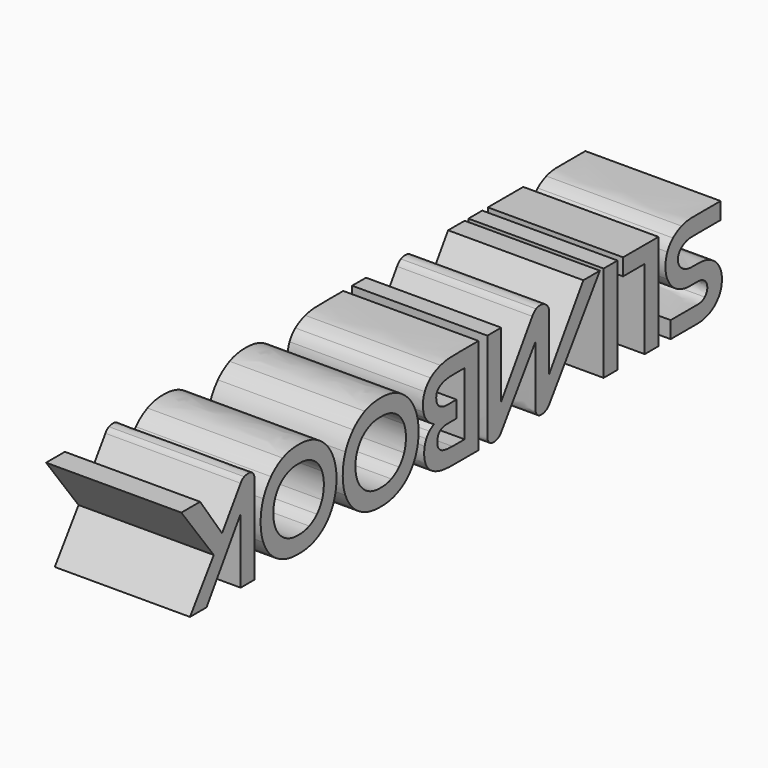
from build123d import *

# Parameters (mm, degrees)
EXTRUDE110_DEPTH           = 20
EXTRUDE110_ROLL_ANGLE      = -90
EXTRUDE110_PLACEMENT_ANGLE = -90
EXTRUDE111_DEPTH           = 20
EXTRUDE111_ROLL_ANGLE      = -90
EXTRUDE111_PLACEMENT_ANGLE = -90
EXTRUDE112_DEPTH           = 20
EXTRUDE112_ROLL_ANGLE      = -90
EXTRUDE112_PLACEMENT_ANGLE = -90
EXTRUDE113_DEPTH           = 20
EXTRUDE113_ROLL_ANGLE      = -90
EXTRUDE113_PLACEMENT_ANGLE = -90
EXTRUDE114_DEPTH           = 20
EXTRUDE114_ROLL_ANGLE      = -90
EXTRUDE114_PLACEMENT_ANGLE = -90
EXTRUDE115_DEPTH           = 20
EXTRUDE115_ROLL_ANGLE      = -90
EXTRUDE115_PLACEMENT_ANGLE = -90
EXTRUDE116_DEPTH           = 20
EXTRUDE116_ROLL_ANGLE      = -90
EXTRUDE116_PLACEMENT_ANGLE = -90
EXTRUDE109_DEPTH           = 20
EXTRUDE109_ROLL_ANGLE      = -90
EXTRUDE109_PLACEMENT_ANGLE = -90


with BuildPart() as extrude110:
    # Face027 → Extrude110 (new body)
    with BuildSketch(Plane(origin=(91.640751, -37.260951, 0), x_dir=(0, 1, 0), z_dir=(0, 0, 1))):
        with BuildLine():
            add(Edge.make_bspline(
                [(7.513413, 5.192279), (-5.590696, 5.192279)],
                knots=[0, 0, 49.52734, 49.52734], degree=1))
            add(Edge.make_bspline(
                [(-5.590696, 5.192279), (-5.968169, 5.192282), (-6.265624, 5.091573), (-6.484699, 4.89049)],
                knots=[0, 0, 0, 0, 1, 1, 1, 1], degree=3))
            add(Edge.make_bspline(
                [(-6.484699, 4.89049), (-6.703774, 4.689055), (-6.812844, 4.424609), (-6.812844, 4.09829)],
                knots=[0, 0, 0, 0, 1, 1, 1, 1], degree=3))
            add(Edge.make_bspline(
                [(-6.812844, 4.09829), (-6.812844, 3.808659), (-6.764811, 3.537279), (-6.668151, 3.286454)],
                knots=[0, 0, 0, 0, 1, 1, 1, 1], degree=3))
            add(Edge.make_bspline(
                [(-6.668151, 3.286454), (-6.558084, 3.02187), (-6.363444, 2.801523), (-6.083692, 2.626546)],
                knots=[0, 0, 0, 0, 1, 1, 1, 1], degree=3))
            add(Edge.make_bspline(
                [(-6.083692, 2.626546), (-0.972891, -0.810455)],
                knots=[0, 0, 23.278102, 23.278102], degree=1))
            add(Edge.make_bspline(
                [(-0.972891, -0.810455), (-6.721896, -4.868605)],
                knots=[0, 0, 26.596606, 26.596606], degree=1))
            add(Edge.make_bspline(
                [(-6.721896, -4.868605), (-6.721896, -8.341262)],
                knots=[0, 0, 13.125, 13.125], degree=1))
            add(Edge.make_bspline(
                [(-6.721896, -8.341262), (1.234726, -2.338527)],
                knots=[0, 0, 37.670467, 37.670467], degree=1))
            add(Edge.make_bspline(
                [(1.234726, -2.338527), (7.513413, -6.737225)],
                knots=[0, 0, 28.974572, 28.974572], degree=1))
            add(Edge.make_bspline(
                [(7.513413, -6.737225), (7.513413, -3.679528)],
                knots=[0, 0, 11.55665, 11.55665], degree=1))
            add(Edge.make_bspline(
                [(7.513413, -3.679528), (-2.105639, 2.626546)],
                knots=[0, 0, 43.471586, 43.471586], degree=1))
            add(Edge.make_bspline(
                [(-2.105639, 2.626546), (7.513413, 2.626546)],
                knots=[0, 0, 36.35547, 36.35547], degree=1))
            add(Edge.make_bspline(
                [(7.513413, 2.626546), (7.513413, 5.192279)],
                knots=[0, 0, 9.69726, 9.69726], degree=1))
        make_face()
    extrude(amount=EXTRUDE110_DEPTH)


with BuildPart() as extrude110_1:
    # Extrude110 roll: moved
    add(extrude110.part.rotate(Axis((0, 0, 0), (1, 0, 0)), EXTRUDE110_ROLL_ANGLE))


with BuildPart() as extrude110_2:
    # Extrude110 placement: moved
    add(extrude110_1.part.moved(Location((235.5, 118.54, -29.31))).rotate(Axis((235.5, 118.54, -29.31), (0, 0, 1)), EXTRUDE110_PLACEMENT_ANGLE))


with BuildPart() as extrude111:
    # Cut044 → Extrude111 (new body)
    with BuildSketch(Plane(origin=(78.30453, -36.824319, 0), x_dir=(0, 1, 0), z_dir=(0, 0, 1))):
        with BuildLine():
            add(Edge.make_bspline(
                [(7.036458, 0.196119), (7.036458, 1.213178), (6.865807, 2.143154), (6.525379, 2.986646)],
                knots=[0, 0, 0, 0, 1, 1, 1, 1], degree=3))
            add(Edge.make_bspline(
                [(6.525379, 2.986646), (6.184947, 3.81885), (5.703789, 4.535606), (5.083606, 5.136385)],
                knots=[0, 0, 0, 0, 1, 1, 1, 1], degree=3))
            add(Edge.make_bspline(
                [(5.083606, 5.136385), (4.462364, 5.726231), (3.726561, 6.187561), (2.874954, 6.522349)],
                knots=[0, 0, 0, 0, 1, 1, 1, 1], degree=3))
            add(Edge.make_bspline(
                [(2.874954, 6.522349), (2.023348, 6.846199), (1.086106, 7.00759), (0.063756, 7.00759)],
                knots=[0, 0, 0, 0, 1, 1, 1, 1], degree=3))
            add(Edge.make_bspline(
                [(0.063756, 7.00759), (-0.957535, 7.00759), (-1.912538, 6.841114), (-2.801184, 6.506329)],
                knots=[0, 0, 0, 0, 1, 1, 1, 1], degree=3))
            add(Edge.make_bspline(
                [(-2.801184, 6.506329), (-3.677838, 6.169779), (-4.443725, 5.702543), (-5.101302, 5.101762)],
                knots=[0, 0, 0, 0, 1, 1, 1, 1], degree=3))
            add(Edge.make_bspline(
                [(-5.101302, 5.101762), (-5.758527, 4.500983), (-6.275018, 3.784579), (-6.65108, 2.952022)],
                knots=[0, 0, 0, 0, 1, 1, 1, 1], degree=3))
            add(Edge.make_bspline(
                [(-6.65108, 2.952022), (-7.017616, 2.108885), (-7.199882, 1.189543), (-7.199882, 0.196119)],
                knots=[0, 0, 0, 0, 1, 1, 1, 1], degree=3))
            add(Edge.make_bspline(
                [(-7.199882, 0.196119), (-7.199882, -0.202306)],
                knots=[0, 0, 1.50586, 1.50586], degree=1))
            add(Edge.make_bspline(
                [(-7.199882, -0.202306), (-7.199882, -1.195729), (-7.017616, -2.109634), (-6.65108, -2.942191)],
                knots=[0, 0, 0, 0, 1, 1, 1, 1], degree=3))
            add(Edge.make_bspline(
                [(-6.65108, -2.942191), (-6.275018, -3.772982), (-5.758527, -4.489223), (-5.101302, -5.091414)],
                knots=[0, 0, 0, 0, 1, 1, 1, 1], degree=3))
            add(Edge.make_bspline(
                [(-5.101302, -5.091414), (-4.443725, -5.703483), (-3.677838, -6.176317), (-2.801184, -6.512515)],
                knots=[0, 0, 0, 0, 1, 1, 1, 1], degree=3))
            add(Edge.make_bspline(
                [(-2.801184, -6.512515), (-1.912538, -6.847301), (-0.957535, -7.014292), (0.063756, -7.014292)],
                knots=[0, 0, 0, 0, 1, 1, 1, 1], degree=3))
            add(Edge.make_bspline(
                [(0.063756, -7.014292), (1.073758, -7.014292), (2.005261, -6.853042), (2.856867, -6.530602)],
                knots=[0, 0, 0, 0, 1, 1, 1, 1], degree=3))
            add(Edge.make_bspline(
                [(2.856867, -6.530602), (3.708474, -6.206752), (4.444441, -5.743353), (5.066035, -5.142572)],
                knots=[0, 0, 0, 0, 1, 1, 1, 1], degree=3))
            add(Edge.make_bspline(
                [(5.066035, -5.142572), (5.685866, -4.552728), (6.167212, -3.836464), (6.507292, -2.994382)],
                knots=[0, 0, 0, 0, 1, 1, 1, 1], degree=3))
            add(Edge.make_bspline(
                [(6.507292, -2.994382), (6.860069, -2.162181), (7.036458, -1.231712), (7.036458, -0.202306)],
                knots=[0, 0, 0, 0, 1, 1, 1, 1], degree=3))
            add(Edge.make_bspline(
                [(7.036458, -0.202306), (7.036458, 0.196119)],
                knots=[0, 0, 1.50586, 1.50586], degree=1))
        make_face()
        with BuildLine():
            add(Edge.make_bspline(
                [(4.207652, 1.980507), (4.437663, 1.438992), (4.554402, 0.843819), (4.554402, 0.196119)],
                knots=[0, 0, 0, 0, 1, 1, 1, 1], degree=3))
            add(Edge.make_bspline(
                [(4.554402, 0.196119), (4.554402, -0.202306)],
                knots=[0, 0, 1.50586, 1.50586], degree=1))
            add(Edge.make_bspline(
                [(4.554402, -0.202306), (4.554402, -0.850006), (4.437663, -1.444967), (4.207652, -1.988243)],
                knots=[0, 0, 0, 0, 1, 1, 1, 1], degree=3))
            add(Edge.make_bspline(
                [(4.207652, -1.988243), (3.976229, -2.543517), (3.647985, -3.016187), (3.222183, -3.408828)],
                knots=[0, 0, 0, 0, 1, 1, 1, 1], degree=3))
            add(Edge.make_bspline(
                [(3.222183, -3.408828), (2.808726, -3.813818), (2.315572, -4.125614), (1.74372, -4.344689)],
                knots=[0, 0, 0, 0, 1, 1, 1, 1], degree=3))
            add(Edge.make_bspline(
                [(1.74372, -4.344689), (1.171868, -4.565174), (0.544591, -4.673868), (-0.136269, -4.673868)],
                knots=[0, 0, 0, 0, 1, 1, 1, 1], degree=3))
            add(Edge.make_bspline(
                [(-0.136269, -4.673868), (-0.793494, -4.673868), (-1.402491, -4.565174), (-1.961997, -4.344689)],
                knots=[0, 0, 0, 0, 1, 1, 1, 1], degree=3))
            add(Edge.make_bspline(
                [(-1.961997, -4.344689), (-2.521503, -4.136549), (-3.007884, -3.836093), (-3.421341, -3.443452)],
                knots=[0, 0, 0, 0, 1, 1, 1, 1], degree=3))
            add(Edge.make_bspline(
                [(-3.421341, -3.443452), (-3.823859, -3.050458), (-4.139214, -2.577082), (-4.370637, -2.022867)],
                knots=[0, 0, 0, 0, 1, 1, 1, 1], degree=3))
            add(Edge.make_bspline(
                [(-4.370637, -2.022867), (-4.602412, -1.479942), (-4.717902, -0.872231), (-4.717902, -0.202306)],
                knots=[0, 0, 0, 0, 1, 1, 1, 1], degree=3))
            add(Edge.make_bspline(
                [(-4.717902, -0.202306), (-4.717902, 0.196119)],
                knots=[0, 0, 1.50586, 1.50586], degree=1))
            add(Edge.make_bspline(
                [(-4.717902, 0.196119), (-4.717902, 0.854755), (-4.607796, 1.460891), (-4.388721, 2.016164)],
                knots=[0, 0, 0, 0, 1, 1, 1, 1], degree=3))
            add(Edge.make_bspline(
                [(-4.388721, 2.016164), (-4.158711, 2.559089), (-3.841732, 3.026158), (-3.440975, 3.420213)],
                knots=[0, 0, 0, 0, 1, 1, 1, 1], degree=3))
            add(Edge.make_bspline(
                [(-3.440975, 3.420213), (-3.026109, 3.813206), (-2.53959, 4.119427), (-1.980084, 4.338502)],
                knots=[0, 0, 0, 0, 1, 1, 1, 1], degree=3))
            add(Edge.make_bspline(
                [(-1.980084, 4.338502), (-1.420577, 4.558988), (-0.805842, 4.667681), (-0.136269, 4.667681)],
                knots=[0, 0, 0, 0, 1, 1, 1, 1], degree=3))
            add(Edge.make_bspline(
                [(-0.136269, 4.667681), (0.55694, 4.667681), (1.189437, 4.558988), (1.761291, 4.338502)],
                knots=[0, 0, 0, 0, 1, 1, 1, 1], degree=3))
            add(Edge.make_bspline(
                [(1.761291, 4.338502), (2.333143, 4.108492), (2.826813, 3.795284), (3.24027, 3.402642)],
                knots=[0, 0, 0, 0, 1, 1, 1, 1], degree=3))
            add(Edge.make_bspline(
                [(3.24027, 3.402642), (3.655136, 2.998711), (3.976229, 2.524842), (4.207652, 1.980507)],
                knots=[0, 0, 0, 0, 1, 1, 1, 1], degree=3))
        make_face(mode=Mode.SUBTRACT)
    extrude(amount=EXTRUDE111_DEPTH)


with BuildPart() as extrude111_1:
    # Extrude111 roll: moved
    add(extrude111.part.rotate(Axis((0, 0, 0), (1, 0, 0)), EXTRUDE111_ROLL_ANGLE))


with BuildPart() as extrude111_2:
    # Extrude111 placement: moved
    add(extrude111_1.part.moved(Location((235.5, 118.54, -29.31))).rotate(Axis((235.5, 118.54, -29.31), (0, 0, 1)), EXTRUDE111_PLACEMENT_ANGLE))


with BuildPart() as extrude112:
    # Face030 → Extrude112 (new body)
    with BuildSketch(Plane(origin=(13.743728, -38.169319, 0), x_dir=(0, 1, 0), z_dir=(0, 0, 1))):
        with BuildLine():
            add(Edge.make_bspline(
                [(8.381458, 1.978038), (-5.854882, 1.978038)],
                knots=[0, 0, 53.80664, 53.80664], degree=1))
            add(Edge.make_bspline(
                [(-5.854882, 1.978038), (-5.854882, -4.57195)],
                knots=[0, 0, 24.755859, 24.755859], degree=1))
            add(Edge.make_bspline(
                [(-5.854882, -4.57195), (-3.372865, -4.57195)],
                knots=[0, 0, 9.38085, 9.38085], degree=1))
            add(Edge.make_bspline(
                [(-3.372865, -4.57195), (-3.372865, -0.570127)],
                knots=[0, 0, 15.125, 15.125], degree=1))
            add(Edge.make_bspline(
                [(-3.372865, -0.570127), (8.381458, -0.570127)],
                knots=[0, 0, 44.42579, 44.42579], degree=1))
            add(Edge.make_bspline(
                [(8.381458, -0.570127), (8.381458, 1.978038)],
                knots=[0, 0, 9.630859, 9.630859], degree=1))
        make_face()
    extrude(amount=EXTRUDE112_DEPTH)


with BuildPart() as extrude112_1:
    # Extrude112 roll: moved
    add(extrude112.part.rotate(Axis((0, 0, 0), (1, 0, 0)), EXTRUDE112_ROLL_ANGLE))


with BuildPart() as extrude112_2:
    # Extrude112 placement: moved
    add(extrude112_1.part.moved(Location((235.5, 118.54, -29.31))).rotate(Axis((235.5, 118.54, -29.31), (0, 0, 1)), EXTRUDE112_PLACEMENT_ANGLE))


with BuildPart() as extrude113:
    # Face031 → Extrude113 (new body)
    with BuildSketch(Plane(origin=(20.629232, -36.906031, 0), x_dir=(0, 1, 0), z_dir=(0, 0, 1))):
        with BuildLine():
            add(Edge.make_bspline(
                [(7.11817, 1.284159), (-7.11817, 1.284159)],
                knots=[0, 0, 53.80664, 53.80664], degree=1))
            add(Edge.make_bspline(
                [(-7.11817, 1.284159), (-7.11817, -1.284159)],
                knots=[0, 0, 9.707032, 9.707032], degree=1))
            add(Edge.make_bspline(
                [(-7.11817, -1.284159), (7.11817, -1.284159)],
                knots=[0, 0, 53.80664, 53.80664], degree=1))
            add(Edge.make_bspline(
                [(7.11817, -1.284159), (7.11817, 1.284159)],
                knots=[0, 0, 9.707032, 9.707032], degree=1))
        make_face()
    extrude(amount=EXTRUDE113_DEPTH)


with BuildPart() as extrude113_1:
    # Extrude113 roll: moved
    add(extrude113.part.rotate(Axis((0, 0, 0), (1, 0, 0)), EXTRUDE113_ROLL_ANGLE))


with BuildPart() as extrude113_2:
    # Extrude113 placement: moved
    add(extrude113_1.part.moved(Location((235.5, 118.54, -29.31))).rotate(Axis((235.5, 118.54, -29.31), (0, 0, 1)), EXTRUDE113_PLACEMENT_ANGLE))


with BuildPart() as extrude114:
    # Face032 → Extrude114 (new body)
    with BuildSketch(Plane(origin=(5.195557, -36.894004, 0), x_dir=(0, 1, 0), z_dir=(0, 0, 1))):
        with BuildLine():
            add(Edge.make_bspline(
                [(7.106144, 0.566899), (7.106144, 1.246349), (7.003329, 1.868958), (6.7966, 2.435519)],
                knots=[0, 0, 0, 0, 1, 1, 1, 1], degree=3))
            add(Edge.make_bspline(
                [(6.7966, 2.435519), (6.602221, 3.001727), (6.327724, 3.485107), (5.974944, 3.887626)],
                knots=[0, 0, 0, 0, 1, 1, 1, 1], degree=3))
            add(Edge.make_bspline(
                [(5.974944, 3.887626), (5.622167, 4.291557), (5.207295, 4.605764), (4.733162, 4.833305)],
                knots=[0, 0, 0, 0, 1, 1, 1, 1], degree=3))
            add(Edge.make_bspline(
                [(4.733162, 4.833305), (4.259028, 5.046736), (3.742374, 5.154216), (3.182868, 5.154216)],
                knots=[0, 0, 0, 0, 1, 1, 1, 1], degree=3))
            add(Edge.make_bspline(
                [(3.182868, 5.154216), (2.609603, 5.154216), (2.086037, 5.046736), (1.611904, 4.833305)],
                knots=[0, 0, 0, 0, 1, 1, 1, 1], degree=3))
            add(Edge.make_bspline(
                [(1.611904, 4.833305), (1.150471, 4.618111), (0.742533, 4.322976), (0.389757, 3.945504)],
                knots=[0, 0, 0, 0, 1, 1, 1, 1], degree=3))
            add(Edge.make_bspline(
                [(0.389757, 3.945504), (0.04968, 3.568032), (-0.21802, 3.12132), (-0.413812, 2.604501)],
                knots=[0, 0, 0, 0, 1, 1, 1, 1], degree=3))
            add(Edge.make_bspline(
                [(-0.413812, 2.604501), (-0.595845, 2.089092), (-0.687698, 1.529678), (-0.687698, 0.925017)],
                knots=[0, 0, 0, 0, 1, 1, 1, 1], degree=3))
            add(Edge.make_bspline(
                [(-0.687698, 0.925017), (-0.687698, -0.244938)],
                knots=[0, 0, 4.421875, 4.421875], degree=1))
            add(Edge.make_bspline(
                [(-0.687698, -0.244938), (-0.687698, -0.634757), (-0.736083, -0.999908), (-0.832391, -1.338928)],
                knots=[0, 0, 0, 0, 1, 1, 1, 1], degree=3))
            add(Edge.make_bspline(
                [(-0.832391, -1.338928), (-0.930464, -1.679358), (-1.071003, -1.968967), (-1.253036, -2.207092)],
                knots=[0, 0, 0, 0, 1, 1, 1, 1], degree=3))
            add(Edge.make_bspline(
                [(-1.253036, -2.207092), (-1.423782, -2.446981), (-1.630583, -2.635669), (-1.874704, -2.775016)],
                knots=[0, 0, 0, 0, 1, 1, 1, 1], degree=3))
            add(Edge.make_bspline(
                [(-1.874704, -2.775016), (-2.117062, -2.912599), (-2.384106, -2.981722), (-2.676206, -2.981722)],
                knots=[0, 0, 0, 0, 1, 1, 1, 1], degree=3))
            add(Edge.make_bspline(
                [(-2.676206, -2.981722), (-3.260406, -2.981722), (-3.734767, -2.723911), (-4.099892, -2.207092)],
                knots=[0, 0, 0, 0, 1, 1, 1, 1], degree=3))
            add(Edge.make_bspline(
                [(-4.099892, -2.207092), (-4.465017, -1.691684), (-4.64818, -1.038688), (-4.64818, -0.244938)],
                knots=[0, 0, 0, 0, 1, 1, 1, 1], degree=3))
            add(Edge.make_bspline(
                [(-4.64818, -0.244938), (-4.64818, 4.90927)],
                knots=[0, 0, 19.480469, 19.480469], degree=1))
            add(Edge.make_bspline(
                [(-4.64818, 4.90927), (-7.130197, 4.90927)],
                knots=[0, 0, 9.38085, 9.38085], degree=1))
            add(Edge.make_bspline(
                [(-7.130197, 4.90927), (-7.130197, -0.244938)],
                knots=[0, 0, 19.480469, 19.480469], degree=1))
            add(Edge.make_bspline(
                [(-7.130197, -0.244938), (-7.130197, -0.999882), (-7.019577, -1.686227), (-6.800502, -2.302177)],
                knots=[0, 0, 0, 0, 1, 1, 1, 1], degree=3))
            add(Edge.make_bspline(
                [(-6.800502, -2.302177), (-6.581427, -2.919538), (-6.277175, -3.447671), (-5.888414, -3.888643)],
                knots=[0, 0, 0, 0, 1, 1, 1, 1], degree=3))
            add(Edge.make_bspline(
                [(-5.888414, -3.888643), (-5.498593, -4.340551), (-5.036771, -4.687664), (-4.5009, -4.925789)],
                knots=[0, 0, 0, 0, 1, 1, 1, 1], degree=3))
            add(Edge.make_bspline(
                [(-4.5009, -4.925789), (-3.966089, -5.164267), (-3.376378, -5.285974), (-2.731499, -5.285974)],
                knots=[0, 0, 0, 0, 1, 1, 1, 1], degree=3))
            add(Edge.make_bspline(
                [(-2.731499, -5.285974), (-2.09756, -5.285974), (-1.514857, -5.171557), (-0.978634, -4.945426)],
                knots=[0, 0, 0, 0, 1, 1, 1, 1], degree=3))
            add(Edge.make_bspline(
                [(-0.978634, -4.945426), (-0.444178, -4.718237), (0.019435, -4.403817), (0.407843, -4.001298)],
                knots=[0, 0, 0, 0, 1, 1, 1, 1], degree=3))
            add(Edge.make_bspline(
                [(0.407843, -4.001298), (0.798017, -3.599131), (1.095257, -3.120621), (1.303397, -2.56676)],
                knots=[0, 0, 0, 0, 1, 1, 1, 1], degree=3))
            add(Edge.make_bspline(
                [(1.303397, -2.56676), (1.521059, -2.012899), (1.629991, -1.40974), (1.629991, -0.754984)],
                knots=[0, 0, 0, 0, 1, 1, 1, 1], degree=3))
            add(Edge.make_bspline(
                [(1.629991, -0.754984), (1.629991, 0.699191)],
                knots=[0, 0, 5.496093, 5.496093], degree=1))
            add(Edge.make_bspline(
                [(1.629991, 0.699191), (1.629991, 1.226946), (1.777517, 1.655267), (2.068207, 1.98335)],
                knots=[0, 0, 0, 0, 1, 1, 1, 1], degree=3))
            add(Edge.make_bspline(
                [(2.068207, 1.98335), (2.361717, 2.295911), (2.725599, 2.453606), (3.163746, 2.453606)],
                knots=[0, 0, 0, 0, 1, 1, 1, 1], degree=3))
            add(Edge.make_bspline(
                [(3.163746, 2.453606), (3.564503, 2.453606), (3.906672, 2.295911), (4.186424, 1.98335)],
                knots=[0, 0, 0, 0, 1, 1, 1, 1], degree=3))
            add(Edge.make_bspline(
                [(4.186424, 1.98335), (4.478524, 1.667614), (4.624124, 1.240705), (4.624124, 0.699191)],
                knots=[0, 0, 0, 0, 1, 1, 1, 1], degree=3))
            add(Edge.make_bspline(
                [(4.624124, 0.699191), (4.624124, -4.322208)],
                knots=[0, 0, 18.978515, 18.978515], degree=1))
            add(Edge.make_bspline(
                [(4.624124, -4.322208), (7.106144, -4.322208)],
                knots=[0, 0, 9.38086, 9.38086], degree=1))
            add(Edge.make_bspline(
                [(7.106144, -4.322208), (7.106144, 0.566899)],
                knots=[0, 0, 18.478515, 18.478515], degree=1))
        make_face()
    extrude(amount=EXTRUDE114_DEPTH)


with BuildPart() as extrude114_1:
    # Extrude114 roll: moved
    add(extrude114.part.rotate(Axis((0, 0, 0), (1, 0, 0)), EXTRUDE114_ROLL_ANGLE))


with BuildPart() as extrude114_2:
    # Extrude114 placement: moved
    add(extrude114_1.part.moved(Location((235.5, 118.54, -29.31))).rotate(Axis((235.5, 118.54, -29.31), (0, 0, 1)), EXTRUDE114_PLACEMENT_ANGLE))


with BuildPart() as extrude115:
    # Cut045 → Extrude115 (new body)
    with BuildSketch(Plane(origin=(49.765622, -36.859535, 0), x_dir=(0, 1, 0), z_dir=(0, 0, 1))):
        with BuildLine():
            add(Edge.make_bspline(
                [(7.089772, 4.722895), (-7.146571, 4.722895)],
                knots=[0, 0, 53.80665, 53.80665], degree=1))
            add(Edge.make_bspline(
                [(-7.146571, 4.722895), (-7.146571, 0.306626)],
                knots=[0, 0, 16.69141, 16.69141], degree=1))
            add(Edge.make_bspline(
                [(-7.146571, 0.306626), (-7.146571, -0.699497), (-7.036464, -1.569027), (-6.817389, -2.297866)],
                knots=[0, 0, 0, 0, 1, 1, 1, 1], degree=3))
            add(Edge.make_bspline(
                [(-6.817389, -2.297866), (-6.598317, -3.040816), (-6.300698, -3.651266), (-5.922873, -4.129281)],
                knots=[0, 0, 0, 0, 1, 1, 1, 1], degree=3))
            add(Edge.make_bspline(
                [(-5.922873, -4.129281), (-5.533052, -4.619993), (-5.084093, -4.978511), (-4.572566, -5.205698)],
                knots=[0, 0, 0, 0, 1, 1, 1, 1], degree=3))
            add(Edge.make_bspline(
                [(-4.572566, -5.205698), (-4.061391, -5.445588), (-3.513974, -5.563817), (-2.929774, -5.563817)],
                knots=[0, 0, 0, 0, 1, 1, 1, 1], degree=3))
            add(Edge.make_bspline(
                [(-2.929774, -5.563817), (-2.637674, -5.563817), (-2.333419, -5.526656), (-2.017684, -5.451163)],
                knots=[0, 0, 0, 0, 1, 1, 1, 1], degree=3))
            add(Edge.make_bspline(
                [(-2.017684, -5.451163), (-1.70089, -5.387663), (-1.396283, -5.274797), (-1.105593, -5.112165)],
                knots=[0, 0, 0, 0, 1, 1, 1, 1], degree=3))
            add(Edge.make_bspline(
                [(-1.105593, -5.112165), (-0.812083, -4.948124), (-0.545796, -4.727638), (-0.302025, -4.450707)],
                knots=[0, 0, 0, 0, 1, 1, 1, 1], degree=3))
            add(Edge.make_bspline(
                [(-0.302025, -4.450707), (-0.046969, -4.186124), (0.166491, -3.858133), (0.336177, -3.46937)],
                knots=[0, 0, 0, 0, 1, 1, 1, 1], degree=3))
            add(Edge.make_bspline(
                [(0.336177, -3.46937), (0.494575, -3.820737), (0.69025, -4.117144), (0.921673, -4.355621)],
                knots=[0, 0, 0, 0, 1, 1, 1, 1], degree=3))
            add(Edge.make_bspline(
                [(0.921673, -4.355621), (1.151683, -4.595511), (1.40113, -4.784061), (1.669947, -4.921996)],
                knots=[0, 0, 0, 0, 1, 1, 1, 1], degree=3))
            add(Edge.make_bspline(
                [(1.669947, -4.921996), (1.949698, -5.06099), (2.235157, -5.161698), (2.527257, -5.223785)],
                knots=[0, 0, 0, 0, 1, 1, 1, 1], degree=3))
            add(Edge.make_bspline(
                [(2.527257, -5.223785), (2.831706, -5.287285), (3.123938, -5.318871), (3.40369, -5.318871)],
                knots=[0, 0, 0, 0, 1, 1, 1, 1], degree=3))
            add(Edge.make_bspline(
                [(3.40369, -5.318871), (4.645469, -5.318871), (5.569683, -4.884811), (6.177166, -4.016624)],
                knots=[0, 0, 0, 0, 1, 1, 1, 1], degree=3))
            add(Edge.make_bspline(
                [(6.177166, -4.016624), (6.786411, -3.148438), (7.089772, -1.888805), (7.089772, -0.240628)],
                knots=[0, 0, 0, 0, 1, 1, 1, 1], degree=3))
            add(Edge.make_bspline(
                [(7.089772, -0.240628), (7.089772, 4.722895)],
                knots=[0, 0, 18.75977, 18.75977], degree=1))
        make_face()
        with BuildLine():
            add(Edge.make_bspline(
                [(-4.665078, 2.155608), (4.625829, 2.155608)],
                knots=[0, 0, 35.11524, 35.11524], degree=1))
            add(Edge.make_bspline(
                [(4.625829, 2.155608), (4.625829, -0.090249)],
                knots=[0, 0, 8.48828, 8.48828], degree=1))
            add(Edge.make_bspline(
                [(4.625829, -0.090249), (4.625827, -1.108718), (4.497964, -1.826673), (4.242906, -2.241539)],
                knots=[0, 0, 0, 0, 1, 1, 1, 1], degree=3))
            add(Edge.make_bspline(
                [(4.242906, -2.241539), (3.987847, -2.670164), (3.56775, -2.883876), (2.98355, -2.883876)],
                knots=[0, 0, 0, 0, 1, 1, 1, 1], degree=3))
            add(Edge.make_bspline(
                [(2.98355, -2.883876), (2.398998, -2.883876), (1.973162, -2.726775), (1.70611, -2.411037)],
                knots=[0, 0, 0, 0, 1, 1, 1, 1], degree=3))
            add(Edge.make_bspline(
                [(1.70611, -2.411037), (1.438703, -2.110825), (1.304583, -1.675), (1.304583, -1.108792)],
                knots=[0, 0, 0, 0, 1, 1, 1, 1], degree=3))
            add(Edge.make_bspline(
                [(1.304583, -1.108792), (1.304583, 0.664745)],
                knots=[0, 0, 6.70313, 6.70313], degree=1))
            add(Edge.make_bspline(
                [(1.304583, 0.664745), (-1.159349, 0.664745)],
                knots=[0, 0, 9.3125, 9.3125], degree=1))
            add(Edge.make_bspline(
                [(-1.159349, 0.664745), (-1.159349, -1.108792)],
                knots=[0, 0, 6.70313, 6.70313], degree=1))
            add(Edge.make_bspline(
                [(-1.159349, -1.108792), (-1.159349, -1.675), (-1.305465, -2.147935), (-1.597565, -2.52576)],
                knots=[0, 0, 0, 0, 1, 1, 1, 1], degree=3))
            add(Edge.make_bspline(
                [(-1.597565, -2.52576), (-1.889665, -2.903233), (-2.333236, -3.091616), (-2.929784, -3.091616)],
                knots=[0, 0, 0, 0, 1, 1, 1, 1], degree=3))
            add(Edge.make_bspline(
                [(-2.929784, -3.091616), (-3.52633, -3.091616), (-3.965197, -2.807748), (-4.244949, -2.241539)],
                knots=[0, 0, 0, 0, 1, 1, 1, 1], degree=3))
            add(Edge.make_bspline(
                [(-4.244949, -2.241539), (-4.524701, -1.687679), (-4.665078, -0.970783), (-4.665078, -0.090249)],
                knots=[0, 0, 0, 0, 1, 1, 1, 1], degree=3))
            add(Edge.make_bspline(
                [(-4.665078, -0.090249), (-4.665078, 2.155608)],
                knots=[0, 0, 8.48828, 8.48828], degree=1))
        make_face(mode=Mode.SUBTRACT)
    extrude(amount=EXTRUDE115_DEPTH)


with BuildPart() as extrude115_1:
    # Extrude115 roll: moved
    add(extrude115.part.rotate(Axis((0, 0, 0), (1, 0, 0)), EXTRUDE115_ROLL_ANGLE))


with BuildPart() as extrude115_2:
    # Extrude115 placement: moved
    add(extrude115_1.part.moved(Location((235.5, 118.54, -29.31))).rotate(Axis((235.5, 118.54, -29.31), (0, 0, 1)), EXTRUDE115_PLACEMENT_ANGLE))


with BuildPart() as extrude116:
    # Cut046 → Extrude116 (new body)
    with BuildSketch(Plane(origin=(63.126016, -36.77114, 0), x_dir=(0, 1, 0), z_dir=(0, 0, 1))):
        with BuildLine():
            add(Edge.make_bspline(
                [(7.008098, 0.196523), (7.008098, 1.212171), (6.838619, 2.142502), (6.4996, 2.987049)],
                knots=[0, 0, 0, 0, 1, 1, 1, 1], degree=3))
            add(Edge.make_bspline(
                [(6.4996, 2.987049), (6.159523, 3.818195), (5.681389, 4.53446), (5.064029, 5.135241)],
                knots=[0, 0, 0, 0, 1, 1, 1, 1], degree=3))
            add(Edge.make_bspline(
                [(5.064029, 5.135241), (4.445256, 5.725085), (3.712053, 6.188484), (2.86468, 6.523269)],
                knots=[0, 0, 0, 0, 1, 1, 1, 1], degree=3))
            add(Edge.make_bspline(
                [(2.86468, 6.523269), (2.015545, 6.845709), (1.081391, 7.007994), (0.064333, 7.007994)],
                knots=[0, 0, 0, 0, 1, 1, 1, 1], degree=3))
            add(Edge.make_bspline(
                [(0.064333, 7.007994), (-0.954136, 7.007994), (-1.904987, 6.839967), (-2.789754, 6.505182)],
                knots=[0, 0, 0, 0, 1, 1, 1, 1], degree=3))
            add(Edge.make_bspline(
                [(-2.789754, 6.505182), (-3.661821, 6.170397), (-4.42671, 5.701889), (-5.080053, 5.102168)],
                knots=[0, 0, 0, 0, 1, 1, 1, 1], degree=3))
            add(Edge.make_bspline(
                [(-5.080053, 5.102168), (-5.734458, 4.499976), (-6.2498, 3.783736), (-6.626212, 2.952944)],
                knots=[0, 0, 0, 0, 1, 1, 1, 1], degree=3))
            add(Edge.make_bspline(
                [(-6.626212, 2.952944), (-6.989927, 2.109453), (-7.171399, 1.190298), (-7.171399, 0.196523)],
                knots=[0, 0, 0, 0, 1, 1, 1, 1], degree=3))
            add(Edge.make_bspline(
                [(-7.171399, 0.196523), (-7.171399, -0.201902)],
                knots=[0, 0, 1.50586, 1.50586], degree=1))
            add(Edge.make_bspline(
                [(-7.171399, -0.201902), (-7.171399, -1.196736), (-6.989927, -2.110479), (-6.626212, -2.941268)],
                knots=[0, 0, 0, 0, 1, 1, 1, 1], degree=3))
            add(Edge.make_bspline(
                [(-6.626212, -2.941268), (-6.2498, -3.773825), (-5.734458, -4.490229), (-5.080053, -5.091008)],
                knots=[0, 0, 0, 0, 1, 1, 1, 1], degree=3))
            add(Edge.make_bspline(
                [(-5.080053, -5.091008), (-4.42671, -5.704138), (-3.661821, -6.176808), (-2.789754, -6.511596)],
                knots=[0, 0, 0, 0, 1, 1, 1, 1], degree=3))
            add(Edge.make_bspline(
                [(-2.789754, -6.511596), (-1.904987, -6.848146), (-0.954136, -7.014923), (0.064333, -7.014923)],
                knots=[0, 0, 0, 0, 1, 1, 1, 1], degree=3))
            add(Edge.make_bspline(
                [(0.064333, -7.014923), (1.070456, -7.014923), (1.99626, -6.85353), (2.845043, -6.52968)],
                knots=[0, 0, 0, 0, 1, 1, 1, 1], degree=3))
            add(Edge.make_bspline(
                [(2.845043, -6.52968), (3.693826, -6.205833), (4.427169, -5.7445), (5.045942, -5.143718)],
                knots=[0, 0, 0, 0, 1, 1, 1, 1], degree=3))
            add(Edge.make_bspline(
                [(5.045942, -5.143718), (5.663303, -4.553875), (6.1416, -3.836603), (6.482029, -2.993463)],
                knots=[0, 0, 0, 0, 1, 1, 1, 1], degree=3))
            add(Edge.make_bspline(
                [(6.482029, -2.993463), (6.833396, -2.160906), (7.008098, -1.231309), (7.008098, -0.201902)],
                knots=[0, 0, 0, 0, 1, 1, 1, 1], degree=3))
            add(Edge.make_bspline(
                [(7.008098, -0.201902), (7.008098, 0.196523)],
                knots=[0, 0, 1.50586, 1.50586], degree=1))
        make_face()
        with BuildLine():
            add(Edge.make_bspline(
                [(4.191164, 1.98091), (4.421528, 1.437985), (4.535847, 0.842813), (4.535847, 0.196523)],
                knots=[0, 0, 0, 0, 1, 1, 1, 1], degree=3))
            add(Edge.make_bspline(
                [(4.535847, 0.196523), (4.535847, -0.201902)],
                knots=[0, 0, 1.50586, 1.50586], degree=1))
            add(Edge.make_bspline(
                [(4.535847, -0.201902), (4.535847, -0.849602), (4.421528, -1.444915), (4.191164, -1.98784)],
                knots=[0, 0, 0, 0, 1, 1, 1, 1], degree=3))
            add(Edge.make_bspline(
                [(4.191164, -1.98784), (3.95974, -2.543113), (3.633186, -3.015405), (3.208795, -3.409459)],
                knots=[0, 0, 0, 0, 1, 1, 1, 1], degree=3))
            add(Edge.make_bspline(
                [(3.208795, -3.409459), (2.796751, -3.814801), (2.306433, -4.124832), (1.73705, -4.34532)],
                knots=[0, 0, 0, 0, 1, 1, 1, 1], degree=3))
            add(Edge.make_bspline(
                [(1.73705, -4.34532), (1.166608, -4.564395), (0.542334, -4.674498), (-0.135703, -4.674498)],
                knots=[0, 0, 0, 0, 1, 1, 1, 1], degree=3))
            add(Edge.make_bspline(
                [(-0.135703, -4.674498), (-0.790459, -4.674498), (-1.396104, -4.564395), (-1.954197, -4.34532)],
                knots=[0, 0, 0, 0, 1, 1, 1, 1], degree=3))
            add(Edge.make_bspline(
                [(-1.954197, -4.34532), (-2.511232, -4.13718), (-2.996327, -3.836724), (-3.408374, -3.444083)],
                knots=[0, 0, 0, 0, 1, 1, 1, 1], degree=3))
            add(Edge.make_bspline(
                [(-3.408374, -3.444083), (-3.807717, -3.051441), (-4.123524, -2.577218), (-4.353534, -2.021947)],
                knots=[0, 0, 0, 0, 1, 1, 1, 1], degree=3))
            add(Edge.make_bspline(
                [(-4.353534, -2.021947), (-4.583899, -1.479022), (-4.699765, -0.872886), (-4.699765, -0.201902)],
                knots=[0, 0, 0, 0, 1, 1, 1, 1], degree=3))
            add(Edge.make_bspline(
                [(-4.699765, -0.201902), (-4.699765, 0.196523)],
                knots=[0, 0, 1.50586, 1.50586], degree=1))
            add(Edge.make_bspline(
                [(-4.699765, 0.196523), (-4.699765, 0.855158), (-4.589286, 1.461673), (-4.371621, 2.015534)],
                knots=[0, 0, 0, 0, 1, 1, 1, 1], degree=3))
            add(Edge.make_bspline(
                [(-4.371621, 2.015534), (-4.141611, 2.559869), (-3.82705, 3.02694), (-3.425942, 3.419582)],
                knots=[0, 0, 0, 0, 1, 1, 1, 1], degree=3))
            add(Edge.make_bspline(
                [(-3.425942, 3.419582), (-3.013898, 3.812224), (-2.528967, 4.119831), (-1.972284, 4.338906)],
                knots=[0, 0, 0, 0, 1, 1, 1, 1], degree=3))
            add(Edge.make_bspline(
                [(-1.972284, 4.338906), (-1.41419, 4.557981), (-0.802807, 4.668085), (-0.135703, 4.668085)],
                knots=[0, 0, 0, 0, 1, 1, 1, 1], degree=3))
            add(Edge.make_bspline(
                [(-0.135703, 4.668085), (0.554683, 4.668085), (1.184695, 4.557981), (1.755137, 4.338906)],
                knots=[0, 0, 0, 0, 1, 1, 1, 1], degree=3))
            add(Edge.make_bspline(
                [(1.755137, 4.338906), (2.324168, 4.107483), (2.814838, 3.795687), (3.226882, 3.403046)],
                knots=[0, 0, 0, 0, 1, 1, 1, 1], degree=3))
            add(Edge.make_bspline(
                [(3.226882, 3.403046), (3.638925, 2.998056), (3.95974, 2.523835), (4.191164, 1.98091)],
                knots=[0, 0, 0, 0, 1, 1, 1, 1], degree=3))
        make_face(mode=Mode.SUBTRACT)
    extrude(amount=EXTRUDE116_DEPTH)


with BuildPart() as extrude116_1:
    # Extrude116 roll: moved
    add(extrude116.part.rotate(Axis((0, 0, 0), (1, 0, 0)), EXTRUDE116_ROLL_ANGLE))


with BuildPart() as extrude116_2:
    # Extrude116 placement: moved
    add(extrude116_1.part.moved(Location((235.5, 118.54, -29.31))).rotate(Axis((235.5, 118.54, -29.31), (0, 0, 1)), EXTRUDE116_PLACEMENT_ANGLE))


with BuildPart() as obj1:
    # Face026 → Extrude109 (new body)
    with BuildSketch(Plane(origin=(35.227469, -37.309852, 0), x_dir=(0, 1, 0), z_dir=(0, 0, 1))):
        with BuildLine():
            add(Edge.make_bspline(
                [(7.631043, 1.788165), (7.631045, 2.066507), (7.570498, 2.336453), (7.449141, 2.601036)],
                knots=[0, 0, 0, 0, 1, 1, 1, 1], degree=3))
            add(Edge.make_bspline(
                [(7.449141, 2.601036), (7.340488, 2.864209), (7.151586, 3.086483), (6.882769, 3.26146)],
                knots=[0, 0, 0, 0, 1, 1, 1, 1], degree=3))
            add(Edge.make_bspline(
                [(6.882769, 3.26146), (-6.714332, 12.625231)],
                knots=[0, 0, 62.397856, 62.397856], degree=1))
            add(Edge.make_bspline(
                [(-6.714332, 12.625231), (-6.714332, 9.565469)],
                knots=[0, 0, 11.564453, 11.564453], degree=1))
            add(Edge.make_bspline(
                [(-6.714332, 9.565469), (2.904716, 3.26146)],
                knots=[0, 0, 43.4673, 43.4673], degree=1))
            add(Edge.make_bspline(
                [(2.904716, 3.26146), (-5.089627, 3.26146)],
                knots=[0, 0, 30.21484, 30.21484], degree=1))
            add(Edge.make_bspline(
                [(-5.089627, 3.26146), (-5.333395, 3.26146), (-5.552571, 3.217365), (-5.746952, 3.129169)],
                knots=[0, 0, 0, 0, 1, 1, 1, 1], degree=3))
            add(Edge.make_bspline(
                [(-5.746952, 3.129169), (-5.941331, 3.042385), (-6.111982, 2.92223), (-6.258032, 2.770534)],
                knots=[0, 0, 0, 0, 1, 1, 1, 1], degree=3))
            add(Edge.make_bspline(
                [(-6.258032, 2.770534), (-6.402669, 2.61884), (-6.519784, 2.44245), (-6.603747, 2.241367)],
                knots=[0, 0, 0, 0, 1, 1, 1, 1], degree=3))
            add(Edge.make_bspline(
                [(-6.603747, 2.241367), (-6.677124, 2.040286), (-6.714332, 1.826358), (-6.714332, 1.600581)],
                knots=[0, 0, 0, 0, 1, 1, 1, 1], degree=3))
            add(Edge.make_bspline(
                [(-6.714332, 1.600581), (-6.714332, 1.335997), (-6.653788, 1.078187), (-6.532431, 0.825952)],
                knots=[0, 0, 0, 0, 1, 1, 1, 1], degree=3))
            add(Edge.make_bspline(
                [(-6.532431, 0.825952), (-6.410019, 0.575127), (-6.184965, 0.340717), (-5.855471, 0.127285)],
                knots=[0, 0, 0, 0, 1, 1, 1, 1], degree=3))
            add(Edge.make_bspline(
                [(-5.855471, 0.127285), (2.904716, -5.610866)],
                knots=[0, 0, 39.580021, 39.580021], degree=1))
            add(Edge.make_bspline(
                [(2.904716, -5.610866), (-6.714332, -5.610866)],
                knots=[0, 0, 36.35546, 36.35546], degree=1))
            add(Edge.make_bspline(
                [(-6.714332, -5.610866), (-6.714332, -8.17815)],
                knots=[0, 0, 9.70312, 9.70312], degree=1))
            add(Edge.make_bspline(
                [(-6.714332, -8.17815), (6.390808, -8.17815)],
                knots=[0, 0, 49.53124, 49.53124], degree=1))
            add(Edge.make_bspline(
                [(6.390808, -8.17815), (6.767223, -8.17815), (7.066115, -8.077444), (7.283777, -7.87636)],
                knots=[0, 0, 0, 0, 1, 1, 1, 1], degree=3))
            add(Edge.make_bspline(
                [(7.283777, -7.87636), (7.51661, -7.674925), (7.631043, -7.410342), (7.631043, -7.08261)],
                knots=[0, 0, 0, 0, 1, 1, 1, 1], degree=3))
            add(Edge.make_bspline(
                [(7.631043, -7.08261), (7.631045, -6.792979), (7.570498, -6.517648), (7.449141, -6.251652)],
                knots=[0, 0, 0, 0, 1, 1, 1, 1], degree=3))
            add(Edge.make_bspline(
                [(7.449141, -6.251652), (7.340488, -6.000827), (7.151586, -5.787255), (6.882769, -5.610866)],
                knots=[0, 0, 0, 0, 1, 1, 1, 1], degree=3))
            add(Edge.make_bspline(
                [(6.882769, -5.610866), (-2.278429, 0.69366)],
                knots=[0, 0, 42.031779, 42.031779], degree=1))
            add(Edge.make_bspline(
                [(-2.278429, 0.69366), (6.390808, 0.69366)],
                knots=[0, 0, 32.76562, 32.76562], degree=1))
            add(Edge.make_bspline(
                [(6.390808, 0.69366), (6.767223, 0.69366), (7.066115, 0.794366), (7.283777, 0.995449)],
                knots=[0, 0, 0, 0, 1, 1, 1, 1], degree=3))
            add(Edge.make_bspline(
                [(7.283777, 0.995449), (7.51661, 1.197943), (7.631043, 1.461494), (7.631043, 1.788165)],
                knots=[0, 0, 0, 0, 1, 1, 1, 1], degree=3))
        make_face()
    extrude(amount=EXTRUDE109_DEPTH)


with BuildPart() as obj1_1:
    # Extrude109 roll: moved
    add(obj1.part.rotate(Axis((0, 0, 0), (1, 0, 0)), EXTRUDE109_ROLL_ANGLE))


with BuildPart() as obj1_2:
    # Extrude109 placement: moved
    add(obj1_1.part.moved(Location((235.5, 118.54, -29.31))).rotate(Axis((235.5, 118.54, -29.31), (0, 0, 1)), EXTRUDE109_PLACEMENT_ANGLE))

    # Fusion029: union Extrude110, Extrude111, Extrude112, Extrude113, Extrude114, Extrude115, Extrude116
    add(extrude110_2.part)
    add(extrude111_2.part)
    add(extrude112_2.part)
    add(extrude113_2.part)
    add(extrude114_2.part)
    add(extrude115_2.part)
    add(extrude116_2.part)


with BuildPart() as obj1_3:
    # Fusion029 placement: moved
    add(obj1_2.part.moved(Location((-0.4, 0, 0))))


solid = obj1_3.part
